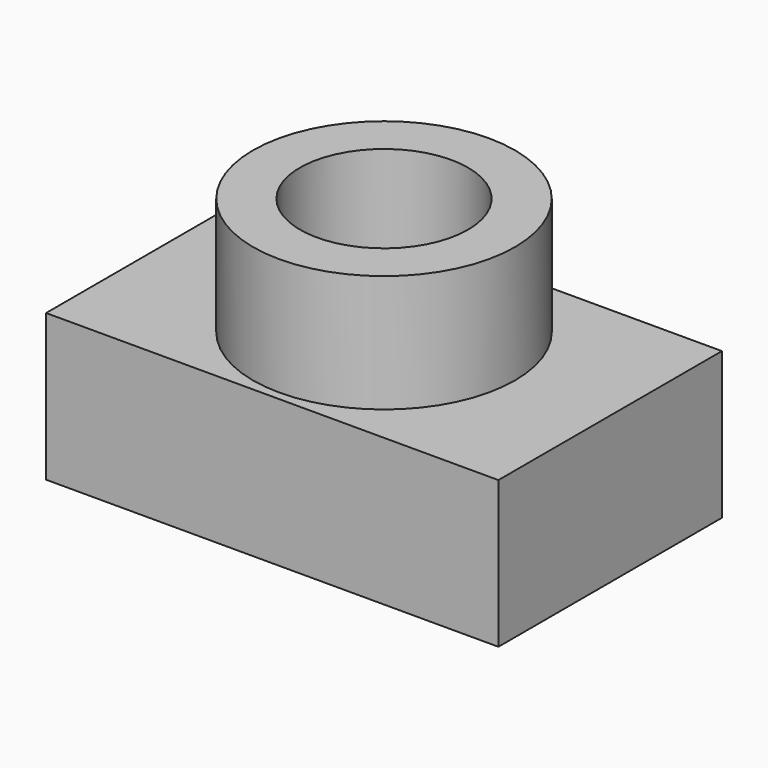
from build123d import *

# Parameters (mm, degrees)
F0_W     = 77.050366
F0_H     = 47.589928
F0_R     = 14.315819
F1_DEPTH = 25
F2_R     = 22.315819
F2_R_2   = 14.315819
F3_DEPTH = 45


with BuildPart() as f1:
    # F0 (on Top) → F1 (new body)
    with BuildSketch(Plane.XY):
        Rectangle(F0_W, F0_H)
        Circle(F0_R, mode=Mode.SUBTRACT)
    extrude(amount=F1_DEPTH)

    # F2 (on Top) → F3 (join)
    with BuildSketch(Plane.XY):
        Circle(F2_R)
        Circle(F2_R_2, mode=Mode.SUBTRACT)
    extrude(amount=F3_DEPTH)


solid = f1.part
